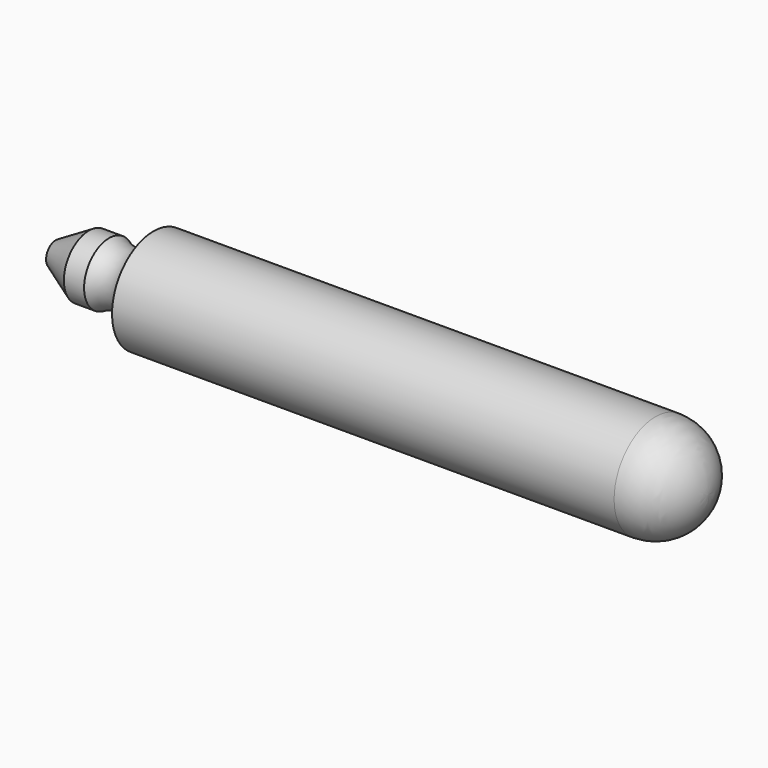
from build123d import *


with BuildPart() as f1:
    # F0 (on Front) → F1 (revolve)
    with BuildSketch(Plane.XZ):
        with BuildLine():
            Line((-10.728158, 0), (5.019842, 0))
            Line((5.019842, 0), (5.019842, 1.3589))
            Line((5.019842, 1.3589), (-8.162758, 1.3589))
            ThreePointArc((-8.162758, 1.3589), (-8.598004, 0.768925), (-9.329433, 0.81915))
            Line((-9.329433, 0.81915), (-9.859275, 0.81915))
            Line((-9.859275, 0.81915), (-10.728158, 0.3175))
            Line((-10.728158, 0.3175), (-10.728158, 0))
        make_face()
        with BuildLine():
            Line((5.019842, 1.3589), (5.019842, 0))
            Line((5.019842, 0), (6.391383, 0))
            ThreePointArc((6.391383, 0), (5.985209, 0.961647), (5.019842, 1.3589))
        make_face()
    revolve(axis=Axis((5.705612, 0, 0), (1, 0, 0)))


solid = f1.part
